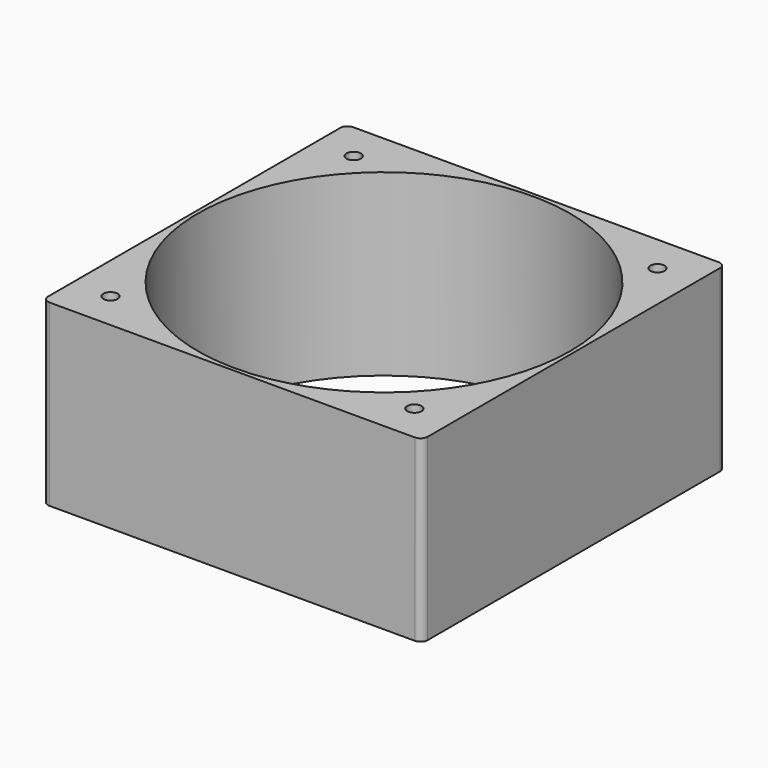
from build123d import *

# Parameters (mm, degrees)
F0_W     = 53
F0_H     = 53
F0_R     = 1
F1_DEPTH = 25
F2_R     = 1


with BuildPart() as f1:
    # F0 (on Top) → F1 (new body)
    with BuildSketch(Plane.XY):
        Rectangle(F0_W, F0_H)
        with Locations((-21.213203, -21.213203)):
            Circle(F0_R, mode=Mode.SUBTRACT)
        with Locations((21.213203, -21.213203)):
            Circle(F0_R, mode=Mode.SUBTRACT)
        with Locations((-21.213203, 21.213203)):
            Circle(F0_R, mode=Mode.SUBTRACT)
        with BuildLine():
            ThreePointArc((0, -26), (-18.384776, 18.384776), (26, 0))
            ThreePointArc((26, 0), (18.384776, -18.384776), (0, -26))
        make_face(mode=Mode.SUBTRACT)
        with Locations((21.213203, 21.213203)):
            Circle(F0_R, mode=Mode.SUBTRACT)
    extrude(amount=F1_DEPTH)

    # F2
    f2_edges = [f1.edges().sort_by_distance(p)[0] for p in [
        (26.5, -26.5, 12.5),
        (26.5, 26.5, 12.5),
        (-26.5, 26.5, 12.5),
        (-26.5, -26.5, 12.5),
    ]]
    fillet(f2_edges, radius=F2_R)


solid = f1.part
